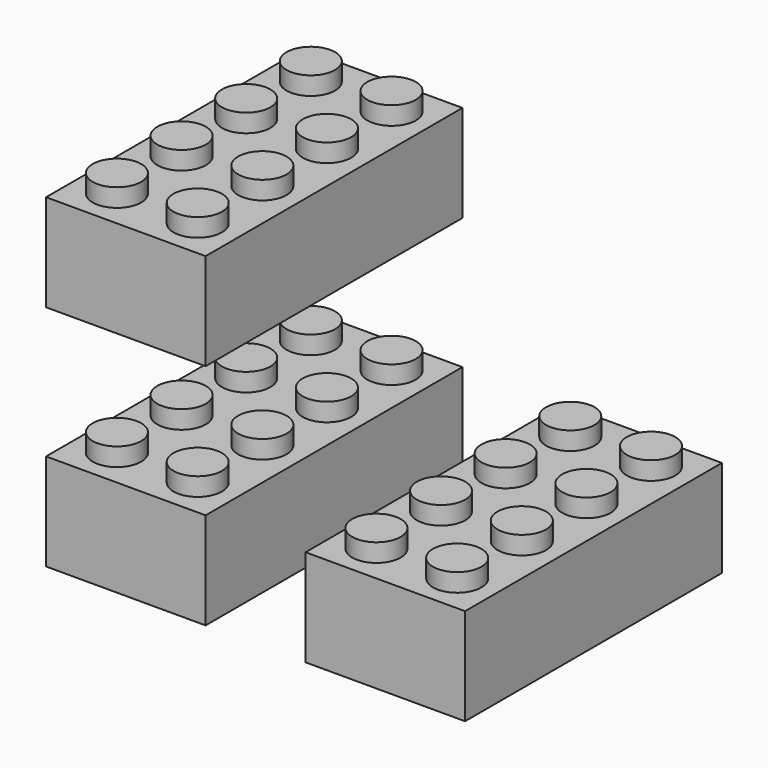
from build123d import *

# Parameters (mm, degrees)
F0_W     = 401.32
F0_H     = 807.72
F1_DEPTH = 243.84
F2_R     = 60.96
F3_DEPTH = 45.72
F4_W     = 340.36
F4_H     = 746.76
F5_DEPTH = 213.36
F6_R     = 82.55
F7_DEPTH = 213.36
F8_R     = 60.96
F9_DEPTH = 213.36


with BuildPart() as f1:
    # F0 (on Top) → F1 (new body)
    with BuildSketch(Plane.XY):
        Rectangle(F0_W, F0_H)
    extrude(amount=F1_DEPTH)

    # F2 (on face) → F3 (join)
    with BuildSketch(Plane.XY.offset(243.84)):
        with Locations((-101.6, 304.8)):
            Circle(F2_R)
        with Locations((101.6, 304.8)):
            Circle(F2_R)
        with Locations((-101.6, 101.6)):
            Circle(F2_R)
        with Locations((101.6, 101.6)):
            Circle(F2_R)
        with Locations((-101.6, -101.6)):
            Circle(F2_R)
        with Locations((101.6, -101.6)):
            Circle(F2_R)
        with Locations((-101.6, -304.8)):
            Circle(F2_R)
        with Locations((101.6, -304.8)):
            Circle(F2_R)
    extrude(amount=F3_DEPTH)

    # F4 (on face) → F5 (cut)
    with BuildSketch(Plane(origin=(0, 0, 0), x_dir=(1, 0, 0), z_dir=(0, 0, -1))):
        Rectangle(F4_W, F4_H)
    extrude(amount=-F5_DEPTH, mode=Mode.SUBTRACT)

    # F6 (on face) → F7 (join)
    with BuildSketch(Plane(origin=(0, 0, 213.36), x_dir=(1, 0, 0), z_dir=(0, 0, -1))):
        with Locations((9.017148, -203.2)):
            Circle(F6_R)
        with Locations((9.017148, 0)):
            Circle(F6_R)
        with Locations((9.017148, 203.2)):
            Circle(F6_R)
    extrude(amount=F7_DEPTH)

    # F8 (on face) → F9 (cut)
    with BuildSketch(Plane(origin=(0, 0, 0), x_dir=(1, 0, 0), z_dir=(0, 0, -1))):
        with Locations((9.017148, 203.2)):
            Circle(F8_R)
        with Locations((9.017148, 0)):
            Circle(F8_R)
        with Locations((9.017148, -203.2)):
            Circle(F8_R)
    extrude(amount=-F9_DEPTH, mode=Mode.SUBTRACT)


with BuildPart() as f10_1:
    # F10: copy of F1
    add(f1.part.moved(Location((0, 0, 574.04))))


with BuildPart() as f11_1:
    # F11: copy of F1
    add(f1.part.moved(Location((652.78, 0, 0))))


solid = Compound([f1.part, f10_1.part, f11_1.part])
